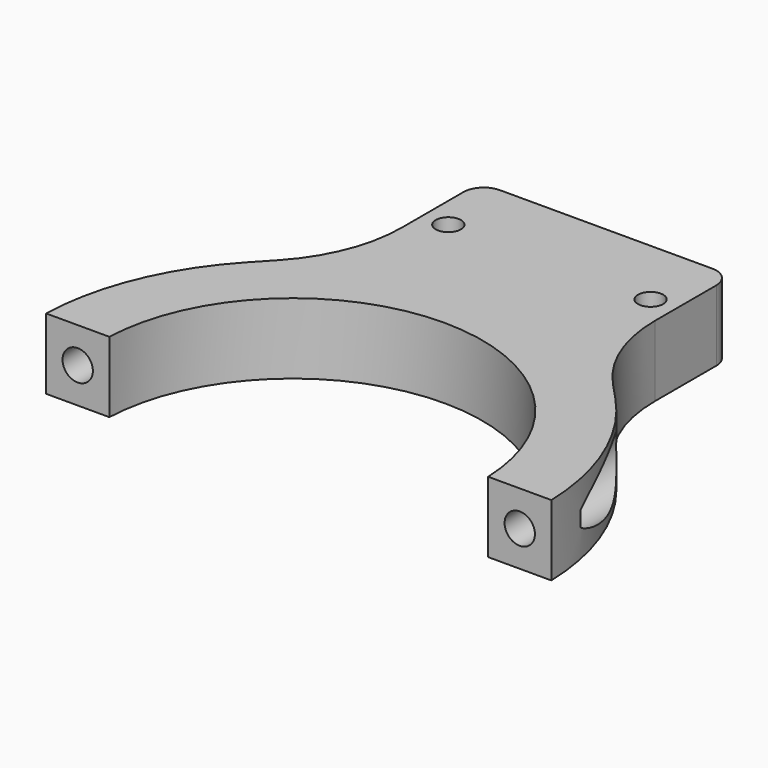
from build123d import *

# Parameters (mm, degrees)
F0_R      = 50
F0_R_2    = 37.5
F1_DEPTH  = 14
F2_W      = 110
F2_H      = 64.89666
F3_DEPTH  = 14.001
F4_R      = 3
F5_DEPTH  = 50.001
F7_R      = 5.5
F8_DEPTH  = 25
F10_DEPTH = 14
F11_R     = 2.5
F12_DEPTH = 14.001


with BuildPart() as f1:
    # F0 (on Top) → F1 (new body)
    with BuildSketch(Plane.XY):
        Circle(F0_R)
        Circle(F0_R_2, mode=Mode.SUBTRACT)
    extrude(amount=F1_DEPTH)

    # F2 (on face) → F3 (cut, through all)
    with BuildSketch(Plane.XY.offset(14)):
        with Locations((0, -30.94833)):
            Rectangle(F2_W, F2_H)
    extrude(amount=-F3_DEPTH, mode=Mode.SUBTRACT)

    # F4 (on Front) → F5 (cut, through all)
    with BuildSketch(Plane.XZ):
        with Locations((-43.723741, 7)):
            Circle(F4_R)
        with Locations((43.723741, 7)):
            Circle(F4_R)
    extrude(amount=-F5_DEPTH, mode=Mode.SUBTRACT)

    # F7 (on offset) → F8 (cut)
    with BuildSketch(Plane.XZ.offset(-10)):
        with Locations((43.723741, 7)):
            Circle(F7_R)
        with Locations((-43.723741, 7)):
            Circle(F7_R)
    extrude(amount=-F8_DEPTH, mode=Mode.SUBTRACT)

    # F9 (on Top) → F10 (join, through all)
    with BuildSketch(Plane.XY):
        with BuildLine():
            ThreePointArc((25, 73.5), (23.828427, 76.328427), (21, 77.5))
            Line((21, 77.5), (-21, 77.5))
            ThreePointArc((-21, 77.5), (-23.828427, 76.328427), (-25, 73.5))
            Line((-25, 73.5), (-25, 58.320619))
            ThreePointArc((-25, 58.320619), (-27.088522, 47.322921), (-33.063292, 37.856484))
            Line((-33.063292, 37.856484), (-36.56118, 34.106892))
            Line((-36.56118, 34.106892), (0, 41.856416))
            Line((0, 41.856416), (36.56118, 34.106892))
            Line((36.56118, 34.106892), (33.063292, 37.856484))
            ThreePointArc((33.063292, 37.856484), (27.088522, 47.322921), (25, 58.320619))
            Line((25, 58.320619), (25, 73.5))
        make_face()
    extrude(amount=F10_DEPTH)

    # F11 (on face) → F12 (cut, through all)
    with BuildSketch(Plane.XY.offset(14)):
        with Locations((-20, 63.5)):
            Circle(F11_R)
        with Locations((20, 63.5)):
            Circle(F11_R)
    extrude(amount=-F12_DEPTH, mode=Mode.SUBTRACT)


solid = f1.part
